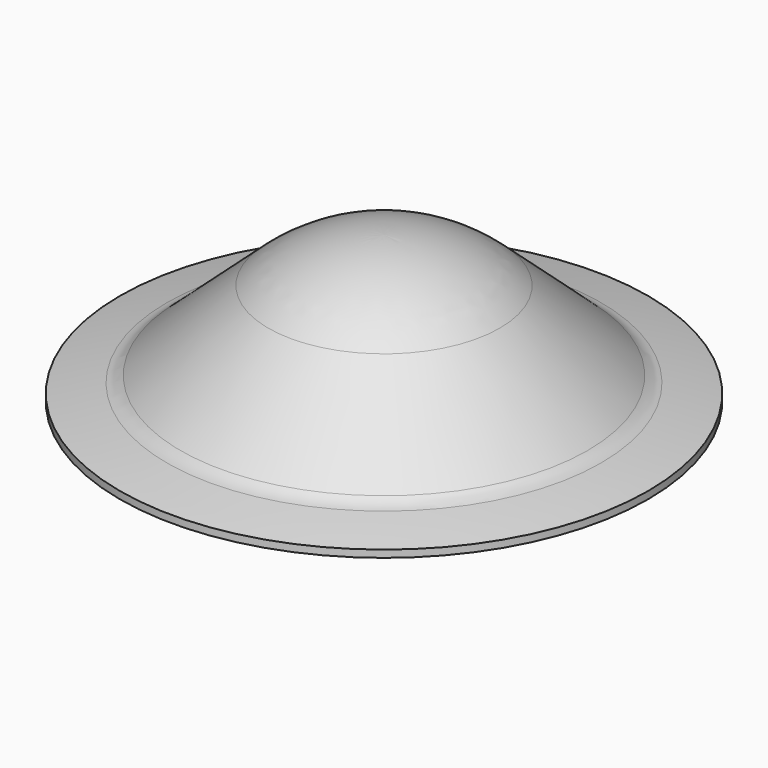
from build123d import *


with BuildPart() as f1:
    # F0 (on Front) → F1 (revolve)
    with BuildSketch(Plane.XZ):
        with BuildLine():
            Line((-29, 0.4), (-18.637842, 0.4))
            ThreePointArc((-18.637842, 0.4), (-16.516901, 6.099059), (-12.704114, 10.83618))
            Line((-12.704114, 10.83618), (-22.361173, 2.152516))
            ThreePointArc((-22.361173, 2.152516), (-23.048862, 1.688419), (-23.837366, 1.430419))
            ThreePointArc((-23.837366, 1.430419), (-26.423706, 0.940377), (-29, 0.4))
        make_face()
        with BuildLine():
            Line((0, 0.4), (18.637842, 0.4))
            ThreePointArc((18.637842, 0.4), (16.516901, 6.099059), (12.704114, 10.83618))
            ThreePointArc((12.704114, 10.83618), (6.803109, 14.448285), (0, 15.708))
            Line((0, 15.708), (0, 0.4))
        make_face()
        with BuildLine():
            Line((0, -0.4), (18.778614, -0.4))
            ThreePointArc((18.778614, -0.4), (18.712503, 0.000752), (18.637842, 0.4))
            Line((18.637842, 0.4), (0, 0.4))
            Line((0, 0.4), (0, 0))
            Line((0, 0), (0, -0.4))
        make_face()
        with BuildLine():
            Line((-29, -0.4), (-18.778614, -0.4))
            ThreePointArc((-18.778614, -0.4), (-18.712503, 0.000752), (-18.637842, 0.4))
            Line((-18.637842, 0.4), (-29, 0.4))
            Line((-29, 0.4), (-29, -0.4))
        make_face()
    revolve(axis=Axis((0, 0, 10.405145), (0, 0, 1)))


solid = f1.part
